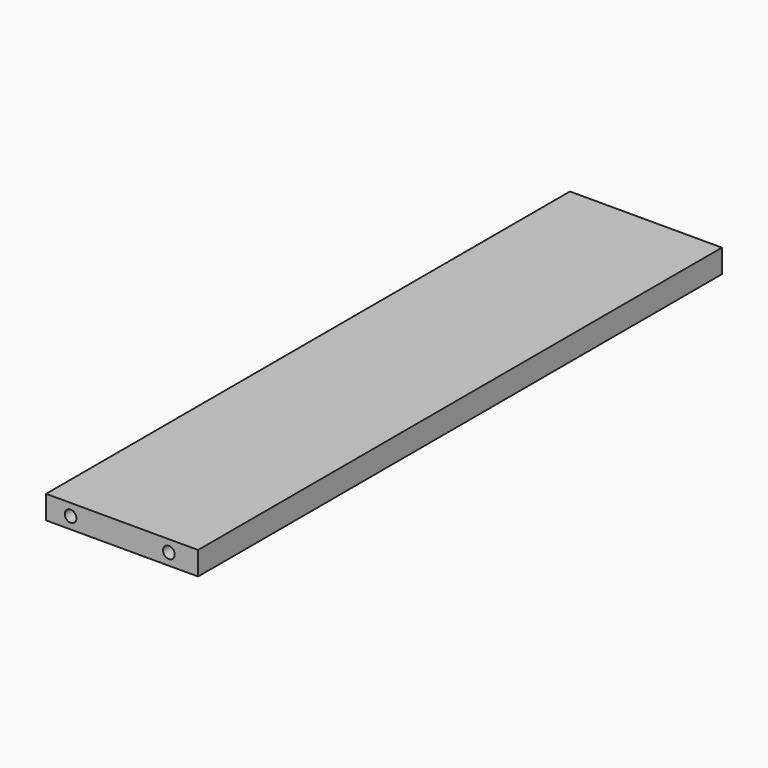
from build123d import *

# Parameters (mm, degrees)
F0_W     = 65
F0_H     = 280
F1_DEPTH = 10
F4_D     = 5
F4_DEPTH = 12
F4_TIP   = 1.5021515476
F7_D     = 5
F7_DEPTH = 12
F7_TIP   = 1.5021515476


with BuildPart() as f1:
    # F0 (on Top) → F1 (new body)
    with BuildSketch(Plane.XY):
        Rectangle(F0_W, F0_H)
    extrude(amount=F1_DEPTH)

    # F4
    with Locations(Plane.XZ.offset(140)):
        with Locations((-22, 5), (20, 5)):
            Hole(F4_D / 2, depth=F4_DEPTH)
            with Locations((0, 0, -(F4_DEPTH + F4_TIP / 2))):  # 118° drill point
                Cone(0, F4_D / 2, F4_TIP, mode=Mode.SUBTRACT)

    # F7
    with Locations(Plane(origin=(0, 140, 0), x_dir=(1, 0, 0), z_dir=(0, 1, 0))):
        with Locations((-20, -5), (20, -5)):
            Hole(F7_D / 2, depth=F7_DEPTH)
            with Locations((0, 0, -(F7_DEPTH + F7_TIP / 2))):  # 118° drill point
                Cone(0, F7_D / 2, F7_TIP, mode=Mode.SUBTRACT)


solid = f1.part
